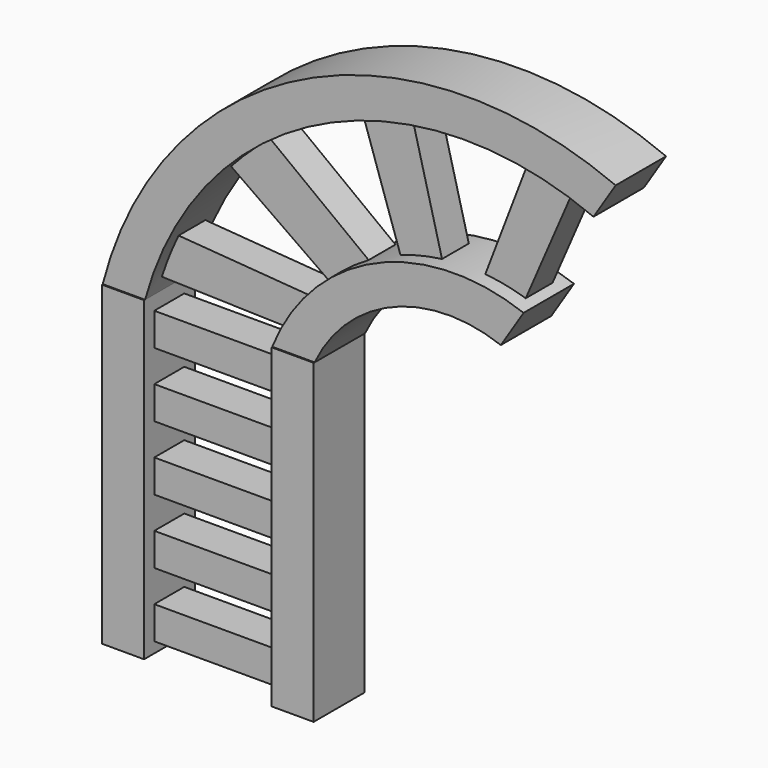
from build123d import *

# Parameters (mm, degrees)
F0_W      = 33.569794488
F0_H      = 251.7734586603
F1_DEPTH  = 50.8
F0_W_2    = 33.4098020662
F3_START  = 10.795
F2_W      = 102.4187883054
F2_H      = 26.035
F3_DEPTH  = 29.845
F11_DEPTH = 50.165
F13_START = 11.43
F13_DEPTH = 26.67


with BuildPart() as f1:
    # F0 (on Front) → F1 (new body)
    with BuildSketch(Plane.XZ):
        with Locations((-74.2440178493, 30.3884302496)):
            Rectangle(F0_W, F0_H)
    extrude(amount=F1_DEPTH)



with BuildPart() as f1b:
    # F0 (on Front) → F1, piece 2 (new body)
    with BuildSketch(Plane.XZ):
        with Locations((60.8457804278, 30.3884302496)):
            Rectangle(F0_W_2, F0_H)
    extrude(amount=F1_DEPTH)


with BuildPart() as f1_1:
    add(f1.part)

    add(f1b.part)  # F3 merges F1b
    # F2 (on Front) → F3 (join)
    with BuildSketch(Plane.XZ.offset(F3_START)):
        with Locations((-6.7171175033, -73.99544688)):
            Rectangle(F2_W, F2_H)
        with Locations((-6.7171175033, -22.56044688)):
            Rectangle(F2_W, F2_H)
        with Locations((-6.7171175033, 28.87455312)):
            Rectangle(F2_W, F2_H)
        with Locations((-6.7171175033, 80.30955312)):
            Rectangle(F2_W, F2_H)
        with Locations((-6.7171175033, 131.74455312)):
            Rectangle(F2_W, F2_H)
    extrude(amount=F3_DEPTH)


with BuildPart() as f4_1:
    # F4: instance of F1
    add(f1_1.part.mirror(Plane.YZ))


with BuildPart() as f5_1:
    # F5: instance of F1
    add(f1_1.part.mirror(Plane.XY))


with BuildPart() as f6_1:
    # F6: instance of F1
    add(f1_1.part.mirror(Plane.YZ))


with BuildPart() as f11:
    # F10 (on Front) → F11 (new body)
    with BuildSketch(Plane.XZ):
        with BuildLine():
            ThreePointArc((317.6255524159, 358.5268855095), (67.0199126253, 351.1337788217), (-90.9333527046, 156.4324416589))
            Line((-90.9333527046, 156.4324416589), (-57.1792276366, 156.4324416589))
            ThreePointArc((-57.1792276366, 156.4324416589), (81.8383182172, 324.6171235077), (299.9535881048, 330.756692356))
            Line((299.9535881048, 330.756692356), (317.6255524159, 358.5268855095))
        make_face()
    extrude(amount=F11_DEPTH)



with BuildPart() as f11b:
    # F10 (on Front) → F11, piece 2 (new body)
    with BuildSketch(Plane.XZ):
        with BuildLine():
            ThreePointArc((244.3029156162, 245.288268658), (126.0804399644, 241.6811233498), (44.0912485032, 156.4324416589))
            Line((44.0912485032, 156.4324416589), (77.8586367032, 156.4324416589))
            ThreePointArc((77.8586367032, 156.4324416589), (140.2099056023, 215.611676515), (226.1661707819, 216.7877070703))
            Line((226.1661707819, 216.7877070703), (244.3029156162, 245.288268658))
        make_face()
    extrude(amount=F11_DEPTH)


with BuildPart() as f11_1:
    add(f11.part)

    add(f11b.part)  # F13 merges F11b
    # F12 (on Front) → F13 (join)
    with BuildSketch(Plane.XZ.offset(F13_START)):
        with BuildLine():
            ThreePointArc((-43.8625849783, 202.3695260286), (-52.5242259082, 186.2460388504), (-58.7876923382, 169.0483689308))
            Line((-58.7876923382, 169.0483689308), (51.9357509911, 165.9245043993))
            ThreePointArc((51.9357509911, 165.9245043993), (61.3690280728, 179.5426083047), (69.9847117066, 193.6921477318))
            Line((69.9847117066, 193.6921477318), (-43.8625849783, 202.3695260286))
        make_face()
        with BuildLine():
            ThreePointArc((31.1100240797, 295.0440049171), (11.4700754124, 284.414915763), (-3.2524224371, 267.6234543324))
            Line((-3.2524224371, 267.6234543324), (82.8272476792, 207.2288691998))
            ThreePointArc((82.8272476792, 207.2288691998), (100.3836801831, 217.294466773), (115.1071190834, 231.1784476042))
            Line((115.1071190834, 231.1784476042), (31.1100240797, 295.0440049171))
        make_face()
        with BuildLine():
            ThreePointArc((143.9449191093, 353.2618284225), (123.4307079656, 350.1093100381), (104.229554534, 342.229783535))
            Line((104.229554534, 342.229783535), (137.6934200525, 242.5736486912))
            ThreePointArc((137.6934200525, 242.5736486912), (154.6414460699, 244.1725876619), (170.7895547152, 249.5606094599))
            Line((170.7895547152, 249.5606094599), (143.9449191093, 353.2618284225))
        make_face()
        with BuildLine():
            Line((233.0750375986, 240.4627352953), (279.4829308987, 347.8301465511))
            ThreePointArc((279.4829308987, 347.8301465511), (262.2436602761, 354.8104334145), (244.0870702267, 358.8421940804))
            Line((244.0870702267, 358.8421940804), (202.4147510529, 249.9283403158))
            ThreePointArc((202.4147510529, 249.9283403158), (217.2981445962, 243.748459178), (233.0750375986, 240.4627352953))
        make_face()
    extrude(amount=F13_DEPTH)


solid = Compound([f1_1.part, f11_1.part])
